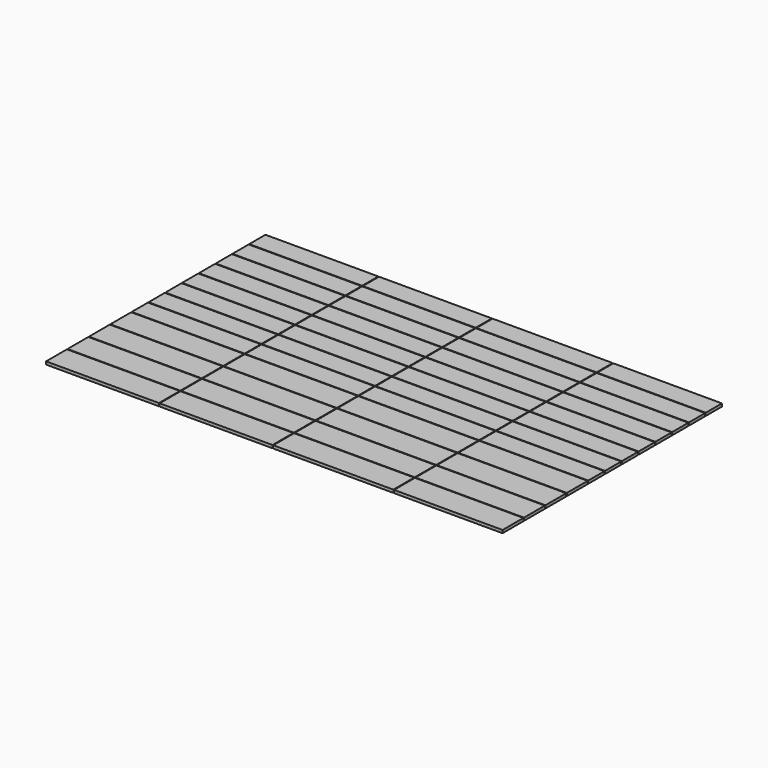
from build123d import *

# Parameters (mm, degrees)
F0_W     = 495.3
F0_H     = 88.9
F0_W_2   = 527.05
F0_W_3   = 476.25
F0_H_2   = 114.3
F1_DEPTH = 12.7


with BuildPart() as f1:
    # F0 (on Top) → F1 (new body)
    with BuildSketch(Plane.XY):
        with Locations((247.65, -44.45)):
            Rectangle(F0_W, F0_H)
        with Locations((247.65, -136.525)):
            Rectangle(F0_W, F0_H)
        with Locations((247.65, -228.6)):
            Rectangle(F0_W, F0_H)
        with Locations((247.65, -320.675)):
            Rectangle(F0_W, F0_H)
        with Locations((247.65, -412.75)):
            Rectangle(F0_W, F0_H)
        with Locations((247.65, -504.825)):
            Rectangle(F0_W, F0_H)
        with Locations((247.65, -596.9)):
            Rectangle(F0_W, F0_H)
        with Locations((247.65, -688.975)):
            Rectangle(F0_W, F0_H)
        with Locations((746.125, -44.45)):
            Rectangle(F0_W, F0_H)
        with Locations((746.125, -136.525)):
            Rectangle(F0_W, F0_H)
        with Locations((746.125, -228.6)):
            Rectangle(F0_W, F0_H)
        with Locations((746.125, -320.675)):
            Rectangle(F0_W, F0_H)
        with Locations((746.125, -412.75)):
            Rectangle(F0_W, F0_H)
        with Locations((746.125, -504.825)):
            Rectangle(F0_W, F0_H)
        with Locations((746.125, -596.9)):
            Rectangle(F0_W, F0_H)
        with Locations((746.125, -688.975)):
            Rectangle(F0_W, F0_H)
        with Locations((1260.475, -44.45)):
            Rectangle(F0_W_2, F0_H)
        with Locations((1260.475, -136.525)):
            Rectangle(F0_W_2, F0_H)
        with Locations((1260.475, -228.6)):
            Rectangle(F0_W_2, F0_H)
        with Locations((1260.475, -320.675)):
            Rectangle(F0_W_2, F0_H)
        with Locations((1260.475, -412.75)):
            Rectangle(F0_W_2, F0_H)
        with Locations((1260.475, -504.825)):
            Rectangle(F0_W_2, F0_H)
        with Locations((1260.475, -596.9)):
            Rectangle(F0_W_2, F0_H)
        with Locations((1260.475, -688.975)):
            Rectangle(F0_W_2, F0_H)
        with Locations((1765.3, -44.45)):
            Rectangle(F0_W_3, F0_H)
        with Locations((1765.3, -136.525)):
            Rectangle(F0_W_3, F0_H)
        with Locations((1765.3, -228.6)):
            Rectangle(F0_W_3, F0_H)
        with Locations((1765.3, -320.675)):
            Rectangle(F0_W_3, F0_H)
        with Locations((1765.3, -412.75)):
            Rectangle(F0_W_3, F0_H)
        with Locations((1765.3, -504.825)):
            Rectangle(F0_W_3, F0_H)
        with Locations((1765.3, -596.9)):
            Rectangle(F0_W_3, F0_H)
        with Locations((1765.3, -688.975)):
            Rectangle(F0_W_3, F0_H)
        with Locations((247.65, -793.75)):
            Rectangle(F0_W, F0_H_2)
        with Locations((247.65, -911.225)):
            Rectangle(F0_W, F0_H_2)
        with Locations((247.65, -1028.7)):
            Rectangle(F0_W, F0_H_2)
        with Locations((247.65, -1146.175)):
            Rectangle(F0_W, F0_H_2)
        with Locations((746.125, -793.75)):
            Rectangle(F0_W, F0_H_2)
        with Locations((746.125, -911.225)):
            Rectangle(F0_W, F0_H_2)
        with Locations((746.125, -1028.7)):
            Rectangle(F0_W, F0_H_2)
        with Locations((746.125, -1146.175)):
            Rectangle(F0_W, F0_H_2)
        with Locations((1260.475, -793.75)):
            Rectangle(F0_W_2, F0_H_2)
        with Locations((1260.475, -911.225)):
            Rectangle(F0_W_2, F0_H_2)
        with Locations((1260.475, -1028.7)):
            Rectangle(F0_W_2, F0_H_2)
        with Locations((1260.475, -1146.175)):
            Rectangle(F0_W_2, F0_H_2)
        with Locations((1765.3, -793.75)):
            Rectangle(F0_W_3, F0_H_2)
        with Locations((1765.3, -911.225)):
            Rectangle(F0_W_3, F0_H_2)
        with Locations((1765.3, -1028.7)):
            Rectangle(F0_W_3, F0_H_2)
        with Locations((1765.3, -1146.175)):
            Rectangle(F0_W_3, F0_H_2)
    extrude(amount=F1_DEPTH)


solid = f1.part
